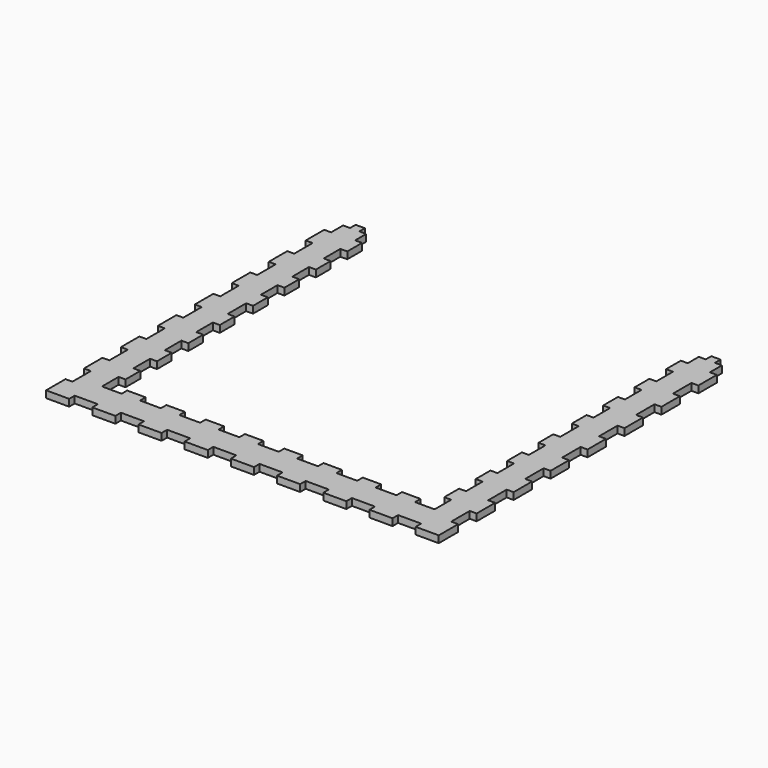
from build123d import *

# Parameters (mm, degrees)
F1_DEPTH = 3


with BuildPart() as f1:
    # F0 (on Top) → F1 (new body)
    with BuildSketch(Plane.XY):
        Polygon((0, 10.5), (0, 0), (10, 0), (10, 3), (20, 3), (20, 0), (30, 0), (30, 3), (40, 3), (40, 0), (50, 0), (50, 3), (60, 3), (60, 0), (70, 0), (70, 3), (80, 3), (80, 0), (90, 0), (90, 3), (100, 3), (100, 0), (110, 0), (110, 3), (120, 3), (120, 0), (130, 0), (130, 3), (140, 3), (140, 0), (150, 0), (150, 3), (160, 3), (160, 0), (170, 0), (170, 10.5), (167, 10.5), (167, 20.5), (170, 20.5), (170, 30.5), (167, 30.5), (167, 40.5), (170, 40.5), (170, 50.5), (167, 50.5), (167, 60.5), (170, 60.5), (170, 70.5), (167, 70.5), (167, 80.5), (170, 80.5), (170, 90.5), (167, 90.5), (167, 100.5), (170, 100.5), (170, 110.5), (167, 110.5), (167, 120.5), (170, 120.5), (170, 130.5), (167, 130.5), (167, 140.5), (170, 140.5), (170, 150.5), (167, 150.5), (167, 157), (164, 157), (164, 160), (160, 160), (160, 157), (157, 157), (157, 151), (154, 151), (154, 143), (157, 143), (157, 134), (154, 134), (154, 126), (157, 126), (157, 117), (154, 117), (154, 109), (157, 109), (157, 100), (154, 100), (154, 92), (157, 92), (157, 82), (154, 82), (154, 74), (157, 74), (157, 65), (154, 65), (154, 57), (157, 57), (157, 48), (154, 48), (154, 40), (157, 40), (157, 31), (154, 31), (154, 23), (157, 23), (157, 14), (148.5, 14), (148.5, 17), (140.5, 17), (140.5, 14), (131.5, 14), (131.5, 17), (123.5, 17), (123.5, 14), (114.5, 14), (114.5, 17), (106.5, 17), (106.5, 14), (97.5, 14), (97.5, 17), (89.5, 17), (89.5, 14), (80.5, 14), (80.5, 17), (72.5, 17), (72.5, 14), (63.5, 14), (63.5, 17), (55.5, 17), (55.5, 14), (46.5, 14), (46.5, 17), (38.5, 17), (38.5, 14), (29.5, 14), (29.5, 17), (21.5, 17), (21.5, 14), (13, 14), (13, 23), (16, 23), (16, 31), (13, 31), (13, 40), (16, 40), (16, 48), (13, 48), (13, 57), (16, 57), (16, 65), (13, 65), (13, 74), (16, 74), (16, 82), (13, 82), (13, 92), (16, 92), (16, 100), (13, 100), (13, 109), (16, 109), (16, 117), (13, 117), (13, 126), (16, 126), (16, 134), (13, 134), (13, 143), (16, 143), (16, 151), (13, 151), (13, 157), (10, 157), (10, 160), (6, 160), (6, 157), (3, 157), (3, 150.5), (0, 150.5), (0, 140.5), (3, 140.5), (3, 130.5), (0, 130.5), (0, 120.5), (3, 120.5), (3, 110.5), (0, 110.5), (0, 100.5), (3, 100.5), (3, 90.5), (0, 90.5), (0, 80.5), (3, 80.5), (3, 70.5), (0, 70.5), (0, 60.5), (3, 60.5), (3, 50.5), (0, 50.5), (0, 40.5), (3, 40.5), (3, 30.5), (0, 30.5), (0, 20.5), (3, 20.5), (3, 10.5), align=None)
    extrude(amount=F1_DEPTH)


solid = f1.part
